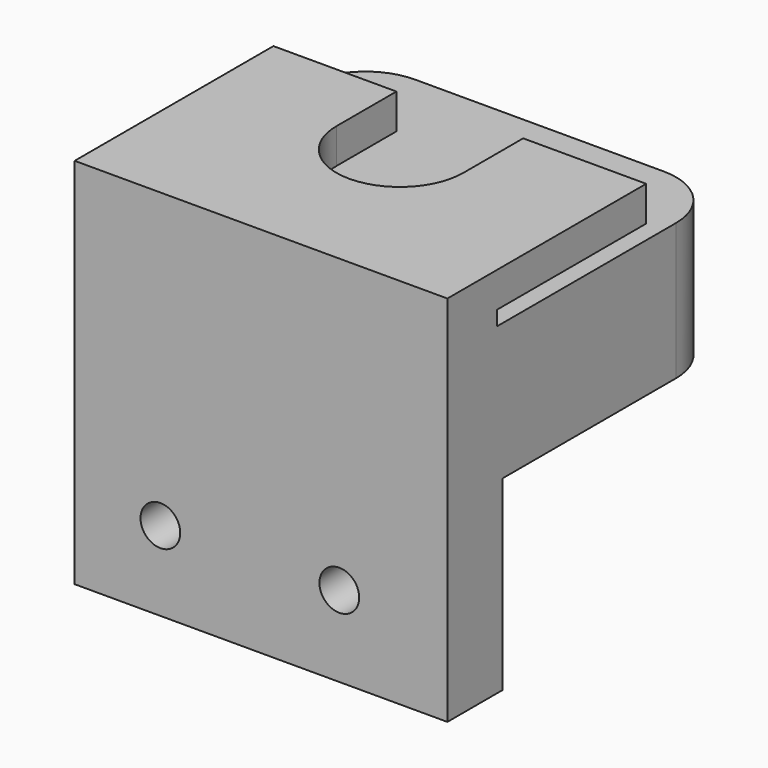
from build123d import *

# Parameters (mm, degrees)
F0_W      = 30
F0_H      = 28
F1_DEPTH  = 11
F2_R      = 5
F3_W      = 30
F3_H      = 5.535902
F4_DEPTH  = 15
F5_R      = 1.6
F6_DEPTH  = 16
F7_W      = 30
F7_H      = 4.997426
F8_DEPTH  = 4
F9_W      = 30
F9_H      = 2.822344
F10_DEPTH = 15
F12_DEPTH = 3


with BuildPart() as f1:
    # F0 (on Top) → F1 (new body)
    with BuildSketch(Plane.XY):
        Rectangle(F0_W, F0_H)
    extrude(amount=F1_DEPTH)

    # F2
    f2_edges = [f1.edges().sort_by_distance(p)[0] for p in [
        (15, 14, 5.5),
        (-15, 14, 5.5),
    ]]
    fillet(f2_edges, radius=F2_R)

    # F3 (on face) → F4 (join)
    with BuildSketch(Plane(origin=(0, 0, 0), x_dir=(1, 0, 0), z_dir=(0, 0, -1))):
        with Locations((0, 11.232049)):
            Rectangle(F3_W, F3_H)
    extrude(amount=F4_DEPTH)

    # F5 (on face) → F6 (cut)
    with BuildSketch(Plane(origin=(0, -8.464098, 0), x_dir=(-1, 0, 0), z_dir=(0, 1, 0))):
        with Locations((-6.3, -8.5)):
            Circle(F5_R)
        with Locations((8.1, -8.6)):
            Circle(F5_R)
    extrude(amount=-F6_DEPTH, mode=Mode.SUBTRACT)

    # F7 (on face) → F8 (join)
    with BuildSketch(Plane.XY.offset(11)):
        with Locations((0, -11.501287)):
            Rectangle(F7_W, F7_H)
    extrude(amount=F8_DEPTH)

    # F9 (on face) → F10 (join)
    with BuildSketch(Plane(origin=(0, -9.002574, 0), x_dir=(-1, 0, 0), z_dir=(0, 1, 0))):
        with Locations((0, 13.588828)):
            Rectangle(F9_W, F9_H)
    extrude(amount=F10_DEPTH)

    # F11 (on face) → F12 (cut)
    with BuildSketch(Plane.XY.offset(15)):
        with BuildLine():
            Line((-5.1, 5.647501), (-5.1, -0.052499))
            ThreePointArc((-5.1, -0.052499), (-5.6e-05, -5.128539), (5.099887, -0.052499))
            Line((5.099887, -0.052499), (5.099887, 5.647501))
            Line((5.099887, 5.647501), (5.099887, 5.997426))
            Line((5.099887, 5.997426), (-5.1, 5.997426))
            Line((-5.1, 5.997426), (-5.1, 5.647501))
        make_face()
    extrude(amount=-F12_DEPTH, mode=Mode.SUBTRACT)


solid = f1.part
